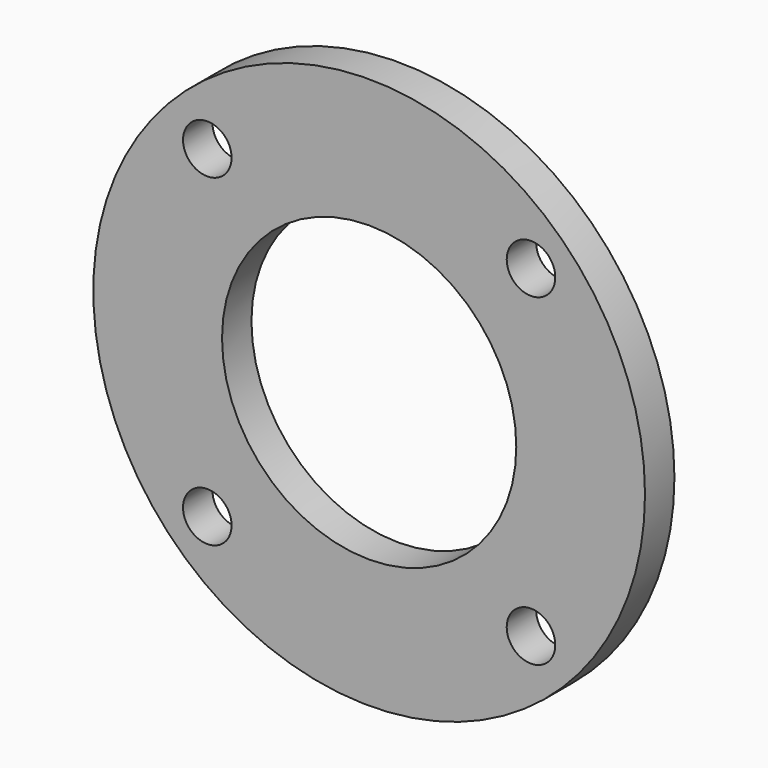
from build123d import *

# Parameters (mm, degrees)
F0_R     = 75
F1_DEPTH = 10
F3_D     = 13.2


with BuildPart() as f1:
    # F0 (on Front) → F1 (new body)
    with BuildSketch(Plane.XZ):
        Circle(F0_R)
        with BuildLine():
            ThreePointArc((0, 40), (28.2842712475, 28.2842712475), (40, 0))
            ThreePointArc((40, 0), (-28.2842712475, -28.2842712475), (0, 40))
        make_face(mode=Mode.SUBTRACT)
    extrude(amount=F1_DEPTH)

    # F3 (through all)
    with Locations(Plane.XZ.offset(10)):
        with Locations((-44, 44), (-44, -44), (44, -44), (44, 44)):
            Hole(F3_D / 2)


solid = f1.part
